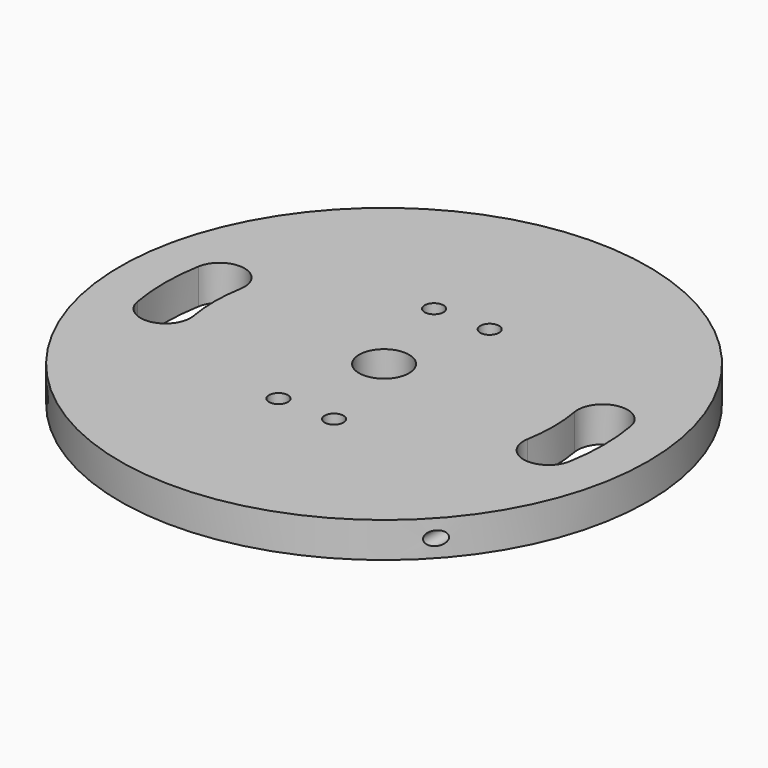
from build123d import *

# Parameters (mm, degrees)
SKETCH_R       = 47.5
PAD_DEPTH      = 6.35
SKETCH001_R    = 4.5
HOLE_DEPTH     = 6.351
SKETCH002_R    = 1.7
HOLE001_DEPTH  = 25
SKETCH003_R    = 1.25
HOLE002_DEPTH  = 25
HOLE002_TIPS_R = 1.25


with BuildPart() as part:
    # Sketch → Pad (new body)
    with BuildSketch(Plane.XY):
        Circle(SKETCH_R)
        with BuildLine():
            ThreePointArc((-38.899906, 6.859103), (-39.5, 0), (-38.899906, -6.859103))
            ThreePointArc((-38.899906, -6.859103), (-33.686855, -10.509321), (-30.036636, -5.296269))
            ThreePointArc((-30.036636, 5.296269), (-30.5, 0), (-30.036636, -5.296269))
            ThreePointArc((-30.036636, 5.296269), (-33.686855, 10.509321), (-38.899906, 6.859103))
        make_face(mode=Mode.SUBTRACT)
        with BuildLine():
            ThreePointArc((30.036636, -5.296269), (30.5, 0), (30.036636, 5.296269))
            ThreePointArc((38.899906, 6.859103), (33.686855, 10.509321), (30.036636, 5.296269))
            ThreePointArc((38.899906, -6.859103), (39.5, 0), (38.899906, 6.859103))
            ThreePointArc((30.036636, -5.296269), (33.686855, -10.509321), (38.899906, -6.859103))
        make_face(mode=Mode.SUBTRACT)
    extrude(amount=PAD_DEPTH)

    # Sketch001 → Hole (cut, through all)
    with BuildSketch(Plane.XY):
        Circle(SKETCH001_R)
    extrude(amount=HOLE_DEPTH, mode=Mode.SUBTRACT)

    # Sketch002 → Hole001 (cut)
    with BuildSketch(Plane.XY):
        with Locations((-5, -17.5)):
            Circle(SKETCH002_R)
        with Locations((5, -17.5)):
            Circle(SKETCH002_R)
        with Locations((5, 17.5)):
            Circle(SKETCH002_R)
        with Locations((-5, 17.5)):
            Circle(SKETCH002_R)
    extrude(amount=HOLE001_DEPTH, mode=Mode.SUBTRACT)

    # Sketch003 → Hole002 (cut)
    with BuildSketch(Plane.XZ.offset(36)):
        with Locations((-35, 3.175)):
            Circle(SKETCH003_R)
        with Locations((35, 3.175)):
            Circle(SKETCH003_R)
    extrude(amount=-HOLE002_DEPTH, mode=Mode.SUBTRACT)

    # Hole002 tips → Hole002 tip 1 section 0
    with BuildSketch(Plane.XZ.offset(11), mode=Mode.PRIVATE) as hole002_tip_1_s0:
        with Locations((-35, 3.175)):
            Circle(HOLE002_TIPS_R)
    loft([hole002_tip_1_s0.sketch, Vertex(-35, -10.248924, 3.175)], mode=Mode.SUBTRACT)

    # Hole002 tips → Hole002 tip 2 section 0
    with BuildSketch(Plane.XZ.offset(11), mode=Mode.PRIVATE) as hole002_tip_2_s0:
        with Locations((35, 3.175)):
            Circle(HOLE002_TIPS_R)
    loft([hole002_tip_2_s0.sketch, Vertex(35, -10.248924, 3.175)], mode=Mode.SUBTRACT)


solid = part.part
